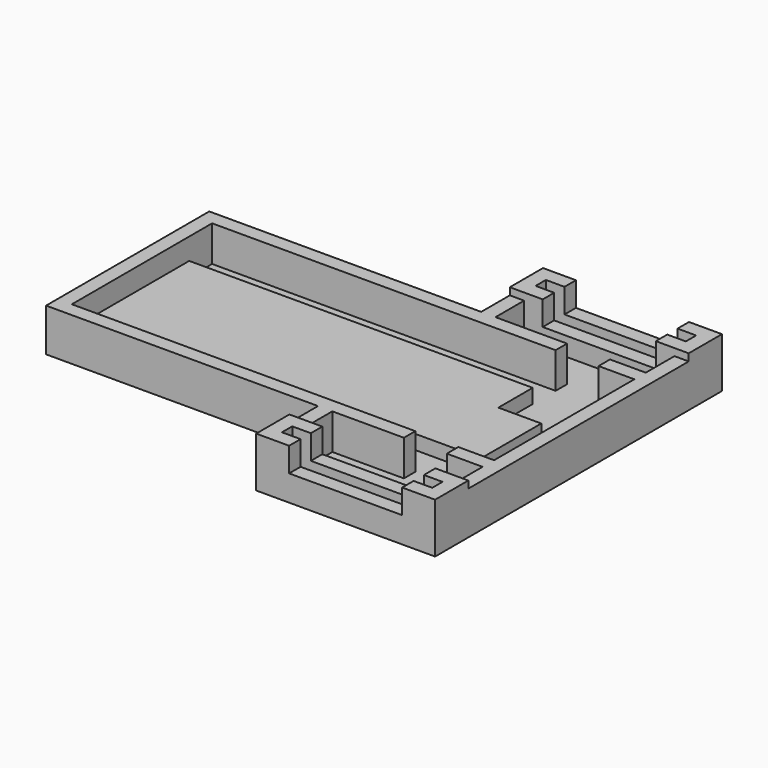
from build123d import *

# Parameters (mm, degrees)
F1_DEPTH = 3
F2_DEPTH = 1
F3_DEPTH = 6
F0_W     = 15.8
F0_H     = 2
F4_DEPTH = 3.6
F7_DEPTH = 1


with BuildPart() as f1:
    # F0 (on Top) → F1 (new body)
    with BuildSketch(Plane.XY):
        Polygon((48, 20.5), (0, 20.5), (0, 4), (54, 4), (54, 14.5), (48, 14.5), align=None)
    extrude(amount=F1_DEPTH)

    # F0 (on Top) → F2 (join)
    with BuildSketch(Plane.XY):
        Polygon((0, 24.5), (0, 20.5), (48, 20.5), (48, 14.5), (54, 14.5), (54, 4), (0, 4), (0, 0), (48, 0), (48, -2), (38, -2), (38, -7), (40.6, -7), (56.4, -7), (59, -7), (59, -2), (54, -2), (54, 0), (59, 0), (59, 24.5), (54, 24.5), (54, 26.5), (59, 26.5), (59, 31.5), (56.4, 31.5), (40.6, 31.5), (38, 31.5), (38, 26.5), (48, 26.5), (48, 24.5), align=None)
        Polygon((38, 33.5), (40.6, 33.5), (56.4, 33.5), (59, 33.5), (59, 35.3), (56.4, 35.3), (40.6, 35.3), (38, 35.3), align=None)
        Polygon((56.4, -9), (40.6, -9), (38, -9), (38, -10.8), (40.6, -10.8), (56.4, -10.8), (59, -10.8), (59, -9), align=None)
    extrude(amount=F2_DEPTH)

    # F0 (on Top) → F3 (join)
    with BuildSketch(Plane.XY):
        Polygon((0, 4), (0, 20.5), (0, 24.5), (48, 24.5), (48, 26.5), (38, 26.5), (36, 26.5), (-2, 26.5), (-2, -2), (36, -2), (38, -2), (48, -2), (48, 0), (0, 0), align=None)
        Polygon((36, 26.5), (38, 26.5), (38, 31.5), (40.6, 31.5), (40.6, 33.5), (38, 33.5), (38, 35.3), (40.6, 35.3), (40.6, 37.3), (36, 37.3), align=None)
        Polygon((56.4, 33.5), (56.4, 31.5), (59, 31.5), (59, 26.5), (61, 26.5), (61, 37.3), (56.4, 37.3), (56.4, 35.3), (59, 35.3), (59, 33.5), align=None)
        Polygon((61, 26.5), (59, 26.5), (54, 26.5), (54, 24.5), (59, 24.5), (59, 0), (54, 0), (54, -2), (59, -2), (61, -2), align=None)
        Polygon((59, -7), (56.4, -7), (56.4, -9), (59, -9), (59, -10.8), (56.4, -10.8), (56.4, -12.8), (61, -12.8), (61, -2), (59, -2), align=None)
        Polygon((38, -7), (38, -2), (36, -2), (36, -12.8), (40.6, -12.8), (40.6, -10.8), (38, -10.8), (38, -9), (40.6, -9), (40.6, -7), align=None)
    extrude(amount=F3_DEPTH)

    # F0 (on Top) → F4 (join)
    with BuildSketch(Plane.XY):
        with Locations((48.5, 36.3)):
            Rectangle(F0_W, F0_H)
        with Locations((48.5, 32.5)):
            Rectangle(F0_W, F0_H)
        with Locations((48.5, -8)):
            Rectangle(F0_W, F0_H)
        with Locations((48.5, -11.8)):
            Rectangle(F0_W, F0_H)
    extrude(amount=F4_DEPTH)

    # F6 (on face) + F5 (on face) → F7 (join)
    with BuildSketch(Plane.XY.offset(6)):
        Polygon((61, 37.3), (56.4, 37.3), (56.4, 35.3), (59, 35.3), (59, 33.5), (56.4, 33.5), (56.4, 31.5), (61, 31.5), align=None)
        Polygon((61, -7), (56.4, -7), (56.4, -9), (59, -9), (59, -10.8), (56.4, -10.8), (56.4, -12.8), (61, -12.8), align=None)
    with BuildSketch(Plane.XY.offset(6)):
        Polygon((40.6, 37.3), (36, 37.3), (36, 31.5), (38, 31.5), (40.6, 31.5), (40.6, 33.5), (38, 33.5), (38, 35.3), (40.6, 35.3), align=None)
        Polygon((38, -7), (36, -7), (36, -12.8), (40.6, -12.8), (40.6, -10.8), (38, -10.8), (38, -9), (40.6, -9), (40.6, -7), align=None)
    extrude(amount=F7_DEPTH)


solid = f1.part
